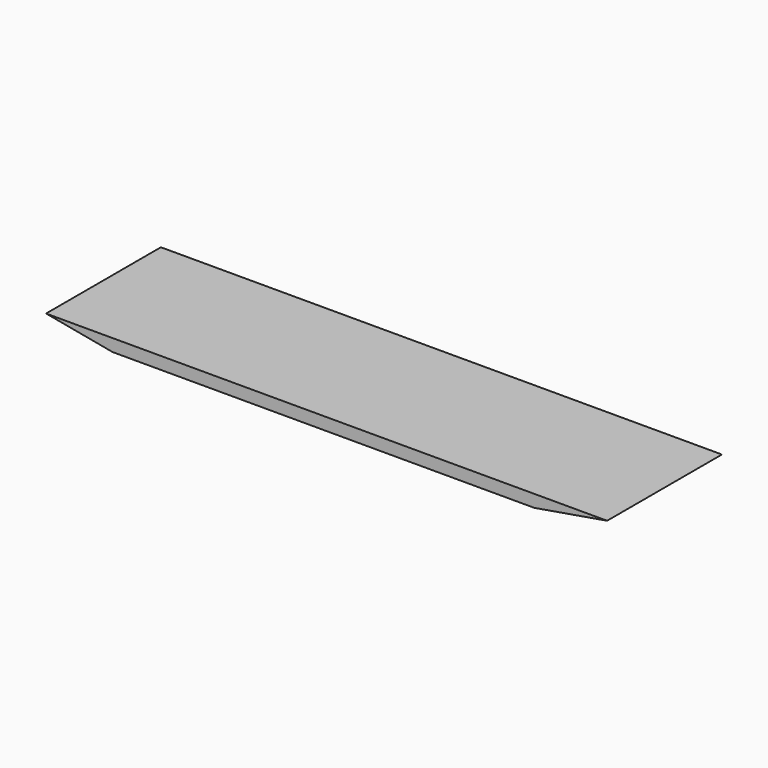
from build123d import *

# Parameters (mm, degrees)
F0_W     = 800.1
F0_H     = 17.446322
F1_DEPTH = 203.2
F3_DEPTH = 203.2
F5_DEPTH = 203.2


with BuildPart() as f1:
    # F0 (on Front) → F1 (new body)
    with BuildSketch(Plane.XZ):
        with Locations((400.05, 8.723161)):
            Rectangle(F0_W, F0_H)
    extrude(amount=-F1_DEPTH)

    # F2 (on Front) → F3 (cut)
    with BuildSketch(Plane.XZ):
        Polygon((0, 18.480113), (0, 0), (99.82422, 0), align=None)
    extrude(amount=-F3_DEPTH, mode=Mode.SUBTRACT)

    # F4 (on face) → F5 (cut)
    with BuildSketch(Plane.XZ):
        Polygon((800.1, 17.446322), (697.02363, 0), (800.1, 0), align=None)
    extrude(amount=-F5_DEPTH, mode=Mode.SUBTRACT)


solid = f1.part
